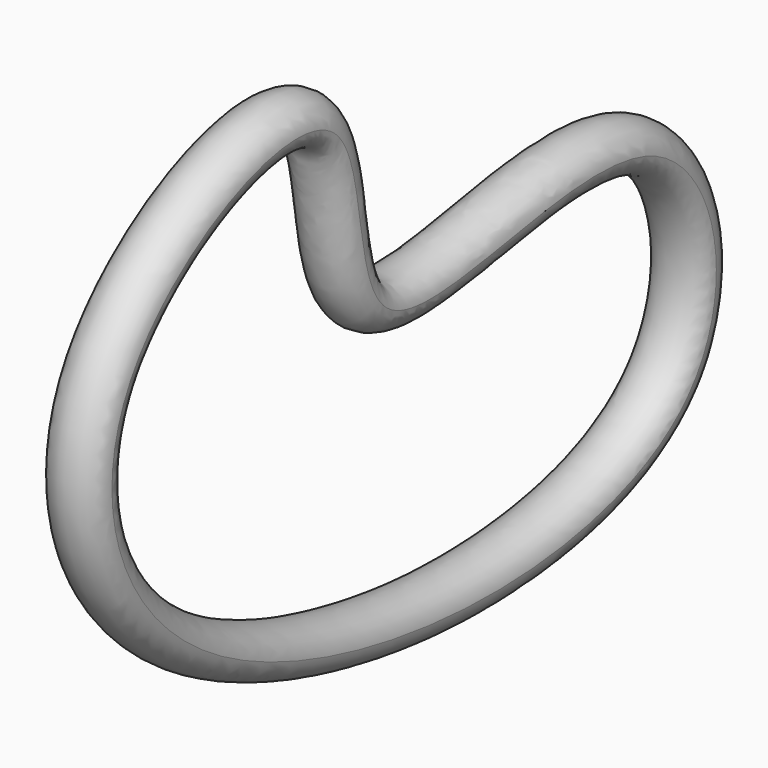
from build123d import *


with BuildPart() as f2:
    # F2: sweep along a path in F1
    with BuildLine(Plane.YZ) as f2_path:
        add(Plane.YZ * Edge.make_bspline(
            [(0, 0), (39.0282928889, -29.4983142282), (248.9421987841, 73.9519917853), (316.7084454072, -233.1516381037), (-190.5178403801, -200.8015389732), (-269.1576066352, 63.9523224284), (0.9454388922, 181.6285913111), (-29.8955720745, 22.5956329065), (0, 0)],
            knots=[0, 0, 0, 0, 0.171888674, 0.316313443, 0.5475841509, 0.7127229395, 0.8683337173, 1, 1, 1, 1], degree=3))
    # F0 (on Front) → F2 (sweep)
    with BuildSketch(Plane.XZ):
        with BuildLine():
            ThreePointArc((-19.5160864307, 2.7961729804), (-1.4016330928, -19.6654935758), (19.7153801107, 0))
            ThreePointArc((19.7153801107, 0), (5.3198351727, 18.9840871954), (-16.8444594278, 10.2450182768))
            ThreePointArc((-16.8444594278, 10.2450182768), (-15.1940103361, 8.7776278872), (-14.5808342749, 6.6560172072))
            ThreePointArc((-14.5808342749, 6.6560172072), (-16.1077757129, 3.5233222293), (-19.5160864307, 2.7961729804))
        make_face()
    sweep(path=f2_path.line)


solid = f2.part
